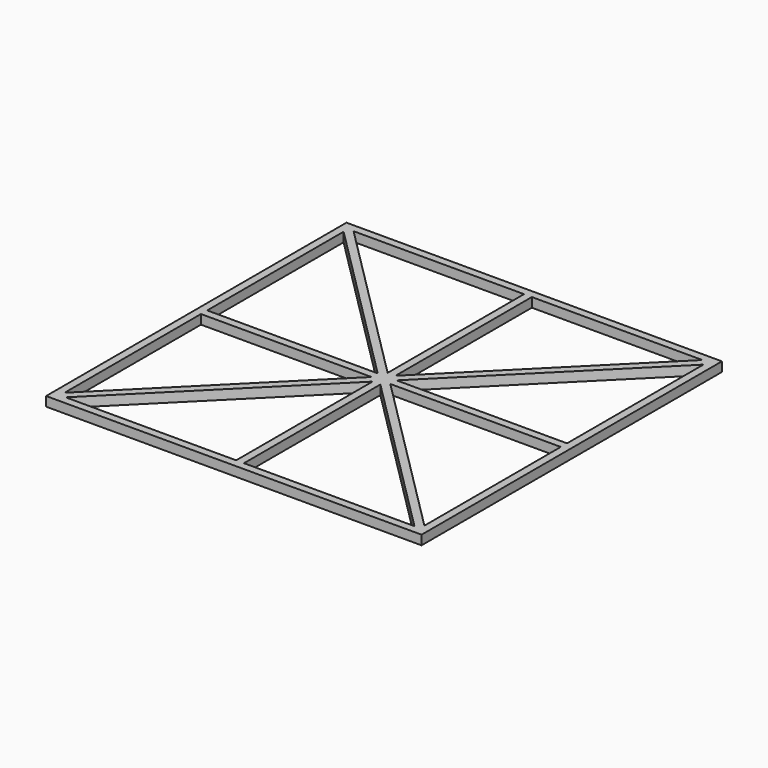
from build123d import *

# Parameters (mm, degrees)
F1_DEPTH = 3


with BuildPart() as f1:
    # F0 (on Top) → F1 (new body)
    with BuildSketch(Plane.XY):
        Polygon((57.5, 57.5), (55.732233047, 57.5), (1.25, 3.017766953), (1.25, 1.25), align=None)
        Polygon((-55.732233047, -57.5), (-58.232233047, -60), (58.232233047, -60), (55.732233047, -57.5), (1.25, -57.5), (-1.25, -57.5), align=None)
        Polygon((57.5, -1.25), (57.5, 1.25), (3.017766953, 1.25), (1.767766953, 0), (3.017766953, -1.25), align=None)
        Polygon((1.25, 57.5), (-1.25, 57.5), (-1.25, 3.017766953), (0, 1.767766953), (1.25, 3.017766953), align=None)
        Polygon((-1.25, 1.25), (-57.5, 57.5), (-57.5, 55.732233047), (-3.017766953, 1.25), align=None)
        Polygon((-57.5, 55.732233047), (-60, 58.232233047), (-60, -58.232233047), (-57.5, -55.732233047), (-57.5, -1.25), (-57.5, 1.25), align=None)
        Polygon((-1.25, -1.25), (-57.5, -57.5), (-55.732233047, -57.5), (-1.25, -3.017766953), align=None)
        Polygon((-1.25, -3.017766953), (-1.25, -57.5), (1.25, -57.5), (1.25, -3.017766953), (0, -1.767766953), align=None)
        Polygon((-3.017766953, -1.25), (-57.5, -55.732233047), (-57.5, -57.5), (-1.25, -1.25), align=None)
        Polygon((58.232233047, 60), (-58.232233047, 60), (-55.732233047, 57.5), (-1.25, 57.5), (1.25, 57.5), (55.732233047, 57.5), align=None)
        Polygon((-3.017766953, 1.25), (-57.5, 1.25), (-57.5, -1.25), (-3.017766953, -1.25), (-1.767766953, 0), align=None)
        Polygon((57.5, 55.732233047), (57.5, 57.5), (1.25, 1.25), (3.017766953, 1.25), align=None)
        Polygon((60, -58.232233047), (60, 58.232233047), (57.5, 55.732233047), (57.5, 1.25), (57.5, -1.25), (57.5, -55.732233047), align=None)
        Polygon((3.017766953, 1.25), (1.25, 1.25), (1.25, 0.517766953), (1.767766953, 0), align=None)
        Polygon((57.5, -57.5), (57.5, -55.732233047), (3.017766953, -1.25), (1.25, -1.25), align=None)
        Polygon((-1.25, 3.017766953), (-1.25, 1.25), (-0.517766953, 1.25), (0, 1.767766953), align=None)
        Polygon((-0.517766953, -1.25), (-1.25, -1.25), (-1.25, -3.017766953), (0, -1.767766953), align=None)
        Polygon((-58.232233047, 60), (-60, 60), (-57.5, 57.5), (-55.732233047, 57.5), align=None)
        Polygon((60, 60), (58.232233047, 60), (55.732233047, 57.5), (57.5, 57.5), align=None)
        Polygon((-57.5, -57.5), (-60, -60), (-58.232233047, -60), (-55.732233047, -57.5), align=None)
        Polygon((55.732233047, -57.5), (58.232233047, -60), (60, -60), (57.5, -57.5), align=None)
        Polygon((-57.5, 57.5), (-60, 60), (-60, 58.232233047), (-57.5, 55.732233047), align=None)
        Polygon((-57.5, -55.732233047), (-60, -58.232233047), (-60, -60), (-57.5, -57.5), align=None)
        Polygon((60, -60), (60, -58.232233047), (57.5, -55.732233047), (57.5, -57.5), align=None)
        Polygon((1.25, -3.017766953), (1.25, -1.25), (0.517766953, -1.25), (0, -1.767766953), align=None)
        Polygon((1.25, -0.517766953), (1.25, -1.25), (3.017766953, -1.25), (1.767766953, 0), align=None)
        Polygon((1.25, 1.25), (1.25, 3.017766953), (0, 1.767766953), (0.517766953, 1.25), align=None)
        Polygon((-55.732233047, 57.5), (-57.5, 57.5), (-1.25, 1.25), (-1.25, 3.017766953), align=None)
        Polygon((-1.25, 0.517766953), (-1.25, 1.25), (-3.017766953, 1.25), (-1.767766953, 0), align=None)
        Polygon((1.25, -3.017766953), (55.732233047, -57.5), (57.5, -57.5), (1.25, -1.25), align=None)
        Polygon((-1.767766953, 0), (-3.017766953, -1.25), (-1.25, -1.25), (-1.25, -0.517766953), align=None)
        Polygon((0, 0), (-0.8838834765, 0.8838834765), (-1.25, 0.517766953), (-1.25, -0.517766953), (-0.8838834765, -0.8838834765), align=None)
        Polygon((-0.517766953, 1.25), (-0.8838834765, 0.8838834765), (0, 0), (0.8838834765, 0.8838834765), (0.517766953, 1.25), align=None)
        Polygon((-0.8838834765, -0.8838834765), (-1.25, -1.25), (-0.517766953, -1.25), align=None)
        Polygon((-1.25, -0.517766953), (-1.25, 0.517766953), (-1.767766953, 0), align=None)
        Polygon((-0.517766953, 1.25), (-1.25, 1.25), (-0.8838834765, 0.8838834765), align=None)
        Polygon((1.25, -0.517766953), (0.8838834765, -0.8838834765), (1.25, -1.25), align=None)
        Polygon((1.25, 1.25), (0.517766953, 1.25), (0.8838834765, 0.8838834765), align=None)
        Polygon((60, 58.232233047), (60, 60), (57.5, 57.5), (57.5, 55.732233047), align=None)
        Polygon((0.517766953, -1.25), (-0.517766953, -1.25), (0, -1.767766953), align=None)
        Polygon((0.8838834765, -0.8838834765), (0, 0), (-0.8838834765, -0.8838834765), (-0.517766953, -1.25), (0.517766953, -1.25), align=None)
        Polygon((0.8838834765, 0.8838834765), (0, 0), (0.8838834765, -0.8838834765), (1.25, -0.517766953), (1.25, 0.517766953), align=None)
        Polygon((0, 1.767766953), (-0.517766953, 1.25), (0.517766953, 1.25), align=None)
        Polygon((1.767766953, 0), (1.25, 0.517766953), (1.25, -0.517766953), align=None)
        Polygon((1.25, -1.25), (0.8838834765, -0.8838834765), (0.517766953, -1.25), align=None)
        Polygon((-0.8838834765, 0.8838834765), (-1.25, 1.25), (-1.25, 0.517766953), align=None)
        Polygon((1.25, 0.517766953), (1.25, 1.25), (0.8838834765, 0.8838834765), align=None)
        Polygon((-0.8838834765, -0.8838834765), (-1.25, -0.517766953), (-1.25, -1.25), align=None)
    extrude(amount=F1_DEPTH)


solid = f1.part
